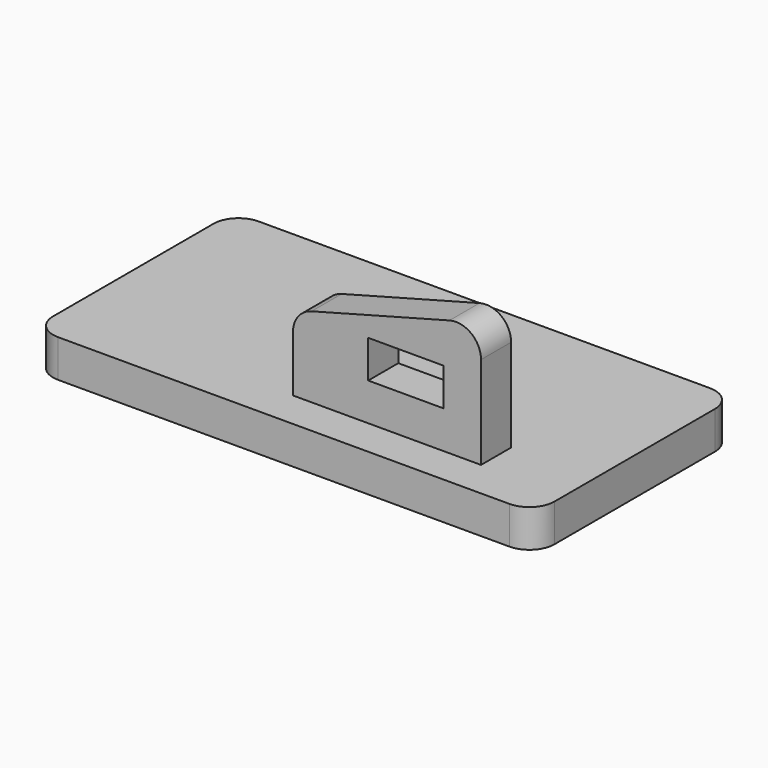
from build123d import *

# Parameters (mm, degrees)
F0_W     = 200
F0_H     = 100
F1_DEPTH = 15
F3_W     = 30
F3_H     = 15
F4_DEPTH = 15
F5_R     = 10


with BuildPart() as f1:
    # F0 (on Top) → F1 (new body)
    with BuildSketch(Plane.XY):
        with Locations((100, 50)):
            Rectangle(F0_W, F0_H)
    extrude(amount=F1_DEPTH)

    # F3 (on offset) → F4 (join)
    with BuildSketch(Plane.XZ.offset(-15)):
        Polygon((91.7036533356, 15), (166.7036533356, 15), (166.7036533356, 65), (91.7036533356, 45), align=None)
        with Locations((136.7036533356, 37.5)):
            Rectangle(F3_W, F3_H, mode=Mode.SUBTRACT)
    extrude(amount=-F4_DEPTH)

    # F5
    f5_edges = [f1.edges().sort_by_distance(p)[0] for p in [
        (200, 0, 7.5),
        (200, 100, 7.5),
        (0, 0, 7.5),
        (0, 100, 7.5),
        (91.703653, 22.5, 45),
        (166.703653, 22.5, 65),
    ]]
    fillet(f5_edges, radius=F5_R)


solid = f1.part
